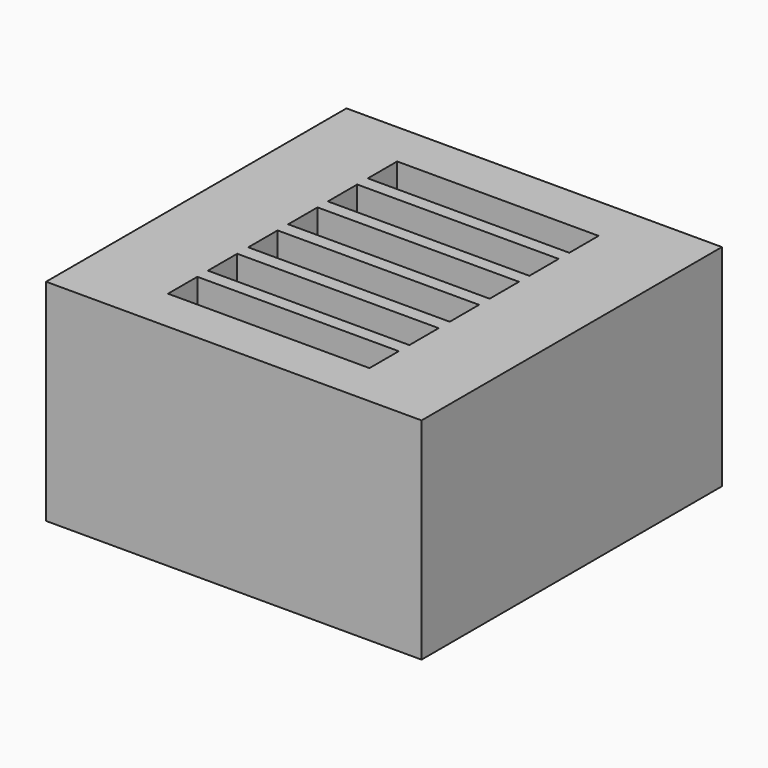
from build123d import *

# Parameters (mm, degrees)
F0_W     = 41
F0_H     = 41
F1_DEPTH = 23
F2_W     = 22
F2_H     = 4
F3_DEPTH = 15


with BuildPart() as f1:
    # F0 (on Top) → F1 (new body)
    with BuildSketch(Plane.XY):
        Rectangle(F0_W, F0_H)
    extrude(amount=F1_DEPTH)

    # F2 (on face) → F3 (cut)
    with BuildSketch(Plane.XY.offset(23)):
        with Locations((0, 13.542799)):
            Rectangle(F2_W, F2_H)
        with Locations((0, 8.094402)):
            Rectangle(F2_W, F2_H)
        with Locations((-0.005073, 2.676965)):
            Rectangle(F2_W, F2_H)
        with Locations((-0.005073, -2.771432)):
            Rectangle(F2_W, F2_H)
        with Locations((0, -8.284377)):
            Rectangle(F2_W, F2_H)
        with Locations((0, -13.732775)):
            Rectangle(F2_W, F2_H)
    extrude(amount=-F3_DEPTH, mode=Mode.SUBTRACT)


solid = f1.part
